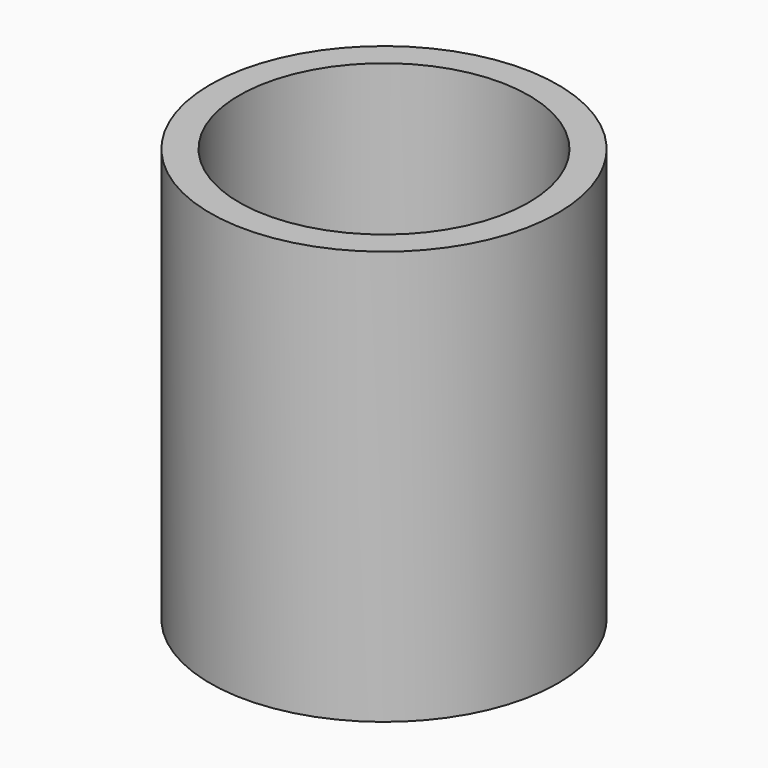
from build123d import *

# Parameters (mm, degrees)
F0_R     = 53.34
F0_R_2   = 44.45
F1_DEPTH = 127


with BuildPart() as f1:
    # F0 (on Top) → F1 (new body)
    with BuildSketch(Plane.XY):
        Circle(F0_R)
        Circle(F0_R_2, mode=Mode.SUBTRACT)
        Circle(F0_R)
        Circle(F0_R_2, mode=Mode.SUBTRACT)
    extrude(amount=F1_DEPTH)


solid = f1.part
